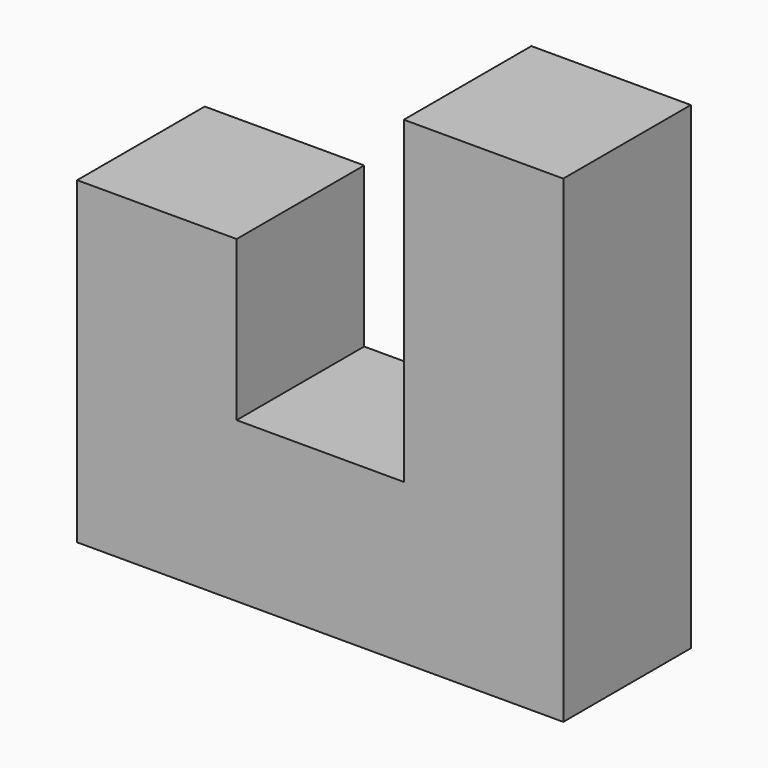
from build123d import *

# Parameters (mm, degrees)
F0_W     = 25.4
F0_H     = 25.4
F0_W_2   = 26.6390249144
F2_DEPTH = 25.4


with BuildPart() as f2:
    # F0 (on Front) → F2 (new body)
    with BuildSketch(Plane.XZ):
        with Locations((-39.3390249144, 38.1)):
            Rectangle(F0_W, F0_H)
        with Locations((-39.3390249144, 12.7)):
            Rectangle(F0_W, F0_H)
        with Locations((-13.3195124572, 12.7)):
            Rectangle(F0_W_2, F0_H)
        with Locations((12.7, 63.5)):
            Rectangle(F0_W, F0_H)
        with Locations((12.7, 38.1)):
            Rectangle(F0_W, F0_H)
        with Locations((12.7, 12.7)):
            Rectangle(F0_W, F0_H)
    extrude(amount=F2_DEPTH)


solid = f2.part
